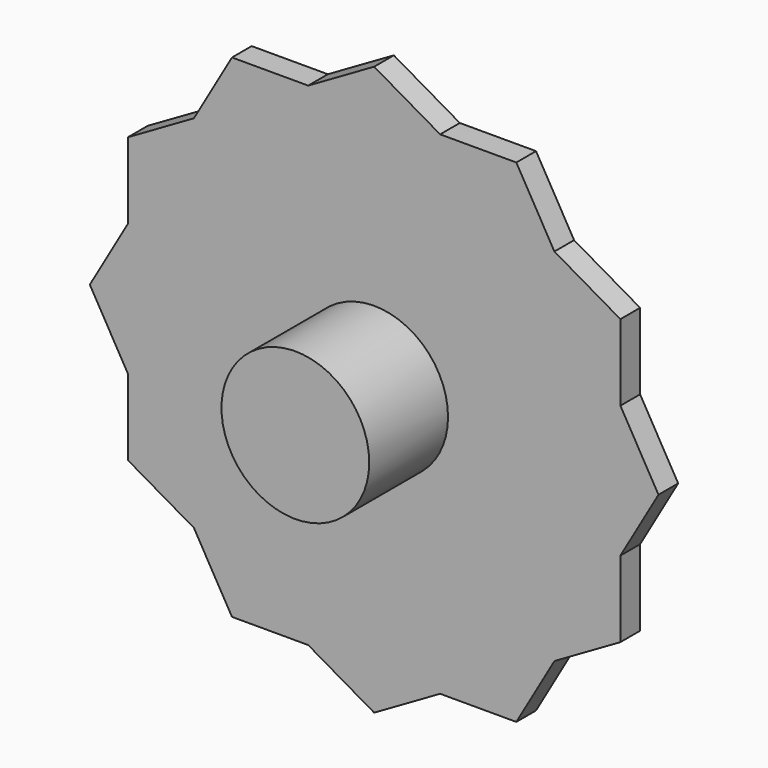
from build123d import *

# Parameters (mm, degrees)
F0_R     = 19.05
F1_DEPTH = 6.35
F2_DEPTH = 25.4


with BuildPart() as f1:
    # F0 (on Front) → F1 (new body)
    with BuildSketch(Plane.XZ):
        Polygon((17.0147737194, 63.5), (-17.0147737194, 63.5), (-46.4852262806, 46.4852262806), (-63.5, 17.0147737194), (-63.5, -17.0147737194), (-46.4852262806, -46.4852262806), (-17.0147737194, -63.5), (17.0147737194, -63.5), (46.4852262806, -46.4852262806), (63.5, -17.0147737194), (63.5, 17.0147737194), (46.4852262806, 46.4852262806), align=None)
        Circle(F0_R, mode=Mode.SUBTRACT)
        Circle(F0_R)
        Polygon((36.6617420935, 63.5), (17.0147737194, 63.5), (46.4852262806, 46.4852262806), align=None)
        Polygon((36.6617420935, -63.5), (46.4852262806, -46.4852262806), (17.0147737194, -63.5), align=None)
        Polygon((63.5, -36.6617420935), (63.5, -17.0147737194), (46.4852262806, -46.4852262806), align=None)
        Polygon((-17.0147737194, 63.5), (-36.6617420935, 63.5), (-46.4852262806, 46.4852262806), align=None)
        Polygon((73.3234841871, 0), (63.5, 17.0147737194), (63.5, -17.0147737194), align=None)
        Polygon((63.5, 36.6617420935), (46.4852262806, 46.4852262806), (63.5, 17.0147737194), align=None)
        Polygon((17.0147737194, -63.5), (-17.0147737194, -63.5), (0, -73.3234841871), align=None)
        Polygon((-17.0147737194, -63.5), (-46.4852262806, -46.4852262806), (-36.6617420935, -63.5), align=None)
        Polygon((-46.4852262806, -46.4852262806), (-63.5, -17.0147737194), (-63.5, -36.6617420935), align=None)
        Polygon((-63.5, -17.0147737194), (-63.5, 17.0147737194), (-73.3234841871, 0), align=None)
        Polygon((-63.5, 17.0147737194), (-46.4852262806, 46.4852262806), (-63.5, 36.6617420935), align=None)
        Polygon((0, 73.3234841871), (-17.0147737194, 63.5), (17.0147737194, 63.5), align=None)
    extrude(amount=-F1_DEPTH)

    # F0 (on Front) → F2 (join)
    with BuildSketch(Plane.XZ):
        Circle(F0_R)
    extrude(amount=F2_DEPTH)


solid = f1.part
